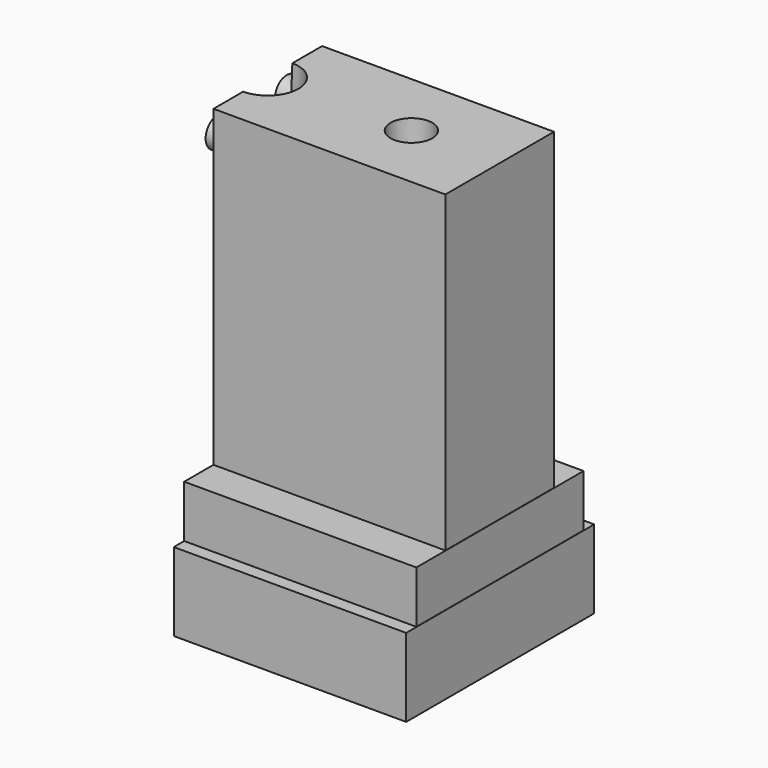
from build123d import *

# Parameters (mm, degrees)
F0_W      = 88.8
F0_H      = 26
F1_DEPTH  = 60
F3_DEPTH  = 45
F4_R      = 2
F5_W      = 88.9
F5_H      = 40
F6_DEPTH  = 10
F8_DEPTH  = 10
F9_R      = 2
F10_W     = 89
F10_H     = 45
F11_DEPTH = 15
F13_DEPTH = 5
F14_R     = 2
F15_R     = 4.6723110677
F15_R_2   = 4
F16_DEPTH = 85.001
F17_W     = 79.5239582658
F17_H     = 118.802215904
F18_DEPTH = 80
F19_R     = 3
F20_DEPTH = 3
F20_TAPER = 3
F21_DEPTH = 3
F21_TAPER = 3
F22_R     = 5.0890490665
F23_DEPTH = 25
F23_TAPER = -3


with BuildPart() as f1:
    # F0 (on Top) → F1 (new body)
    with BuildSketch(Plane.XY):
        Rectangle(F0_W, F0_H)
    extrude(amount=F1_DEPTH)

    # F2 (on face) → F3 (cut)
    with BuildSketch(Plane(origin=(0, 0, 0), x_dir=(1, 0, 0), z_dir=(0, 0, -1))):
        Polygon((-17.5, -7.6945363638), (0, -8), (17.5, -7.6945363638), (17.5, 7.6945363638), (0, 8), (-17.5, 7.6945363638), align=None)
    extrude(amount=-F3_DEPTH, mode=Mode.SUBTRACT)

    # F4
    f4_edges = [f1.edges().sort_by_distance(p)[0] for p in [
        (-17.5, 7.694536, 22.5),
        (-17.5, -7.694536, 22.5),
        (17.5, -7.694536, 22.5),
        (17.5, 7.694536, 22.5),
    ]]
    fillet(f4_edges, radius=F4_R)

    # F5 (on face) → F6 (join)
    with BuildSketch(Plane(origin=(0, 0, 0), x_dir=(1, 0, 0), z_dir=(0, 0, -1))):
        Rectangle(F5_W, F5_H)
    extrude(amount=F6_DEPTH)

    # F7 (on face) → F8 (cut)
    with BuildSketch(Plane(origin=(0, 0, -10), x_dir=(1, 0, 0), z_dir=(0, 0, -1))):
        Polygon((-20, -10.1508987014), (0, -10.5), (20, -10.1508987014), (20, 10.1508987014), (0, 10.5), (-20, 10.1508987014), align=None)
    extrude(amount=-F8_DEPTH, mode=Mode.SUBTRACT)

    # F9
    f9_edges = [f1.edges().sort_by_distance(p)[0] for p in [
        (-20, 10.150899, -5),
        (-20, -10.150899, -5),
        (20, 10.150899, -5),
        (20, -10.150899, -5),
    ]]
    fillet(f9_edges, radius=F9_R)

    # F10 (on face) → F11 (join)
    with BuildSketch(Plane(origin=(0, 0, -10), x_dir=(1, 0, 0), z_dir=(0, 0, -1))):
        Rectangle(F10_W, F10_H)
    extrude(amount=F11_DEPTH)

    # F12 (on face) → F13 (cut)
    with BuildSketch(Plane.XY.offset(-10)):
        Polygon((-39.5, -16.5605249353), (0, -17.25), (39.5, -16.5605249353), (39.5, 16.5605249353), (0, 17.25), (-39.5, 16.5605249353), align=None)
    extrude(amount=-F13_DEPTH, mode=Mode.SUBTRACT)

    # F14
    f14_edges = [f1.edges().sort_by_distance(p)[0] for p in [
        (-39.5, 16.560525, -12.5),
        (-39.5, -16.560525, -12.5),
        (39.5, -16.560525, -12.5),
        (39.5, 16.560525, -12.5),
    ]]
    fillet(f14_edges, radius=F14_R)

    # F15 (on face) → F16 (cut, through all)
    with BuildSketch(Plane.XY.offset(60)):
        with Locations((-27.5, 0)):
            Circle(F15_R)
        with Locations((27.5, 0)):
            Circle(F15_R_2)
    extrude(amount=-F16_DEPTH, mode=Mode.SUBTRACT)

    # F17 (on Right) → F18 (cut)
    with BuildSketch(Plane.YZ):
        with Locations((3.9665214717, 9.8679382354)):
            Rectangle(F17_W, F17_H)
    extrude(amount=-F18_DEPTH, mode=Mode.SUBTRACT)

    # F19 (on face) → F20 (join)
    with BuildSketch(Plane(origin=(0, 0, 0), x_dir=(0, -1, 0), z_dir=(-1, 0, 0))):
        with Locations((8.2831978798, 53.2280467451)):
            Circle(F19_R)
        with Locations((0, -20.896807313)):
            Circle(F19_R)
        with Locations((-8.2831978798, 53.2280467451)):
            Circle(F19_R)
    extrude(amount=F20_DEPTH, taper=F20_TAPER)

    # F19 (on face) → F21 (join)
    with BuildSketch(Plane(origin=(0, 0, 0), x_dir=(0, -1, 0), z_dir=(-1, 0, 0))):
        with Locations((8.2831978798, 53.2280467451)):
            Circle(F19_R)
        with Locations((0, -20.896807313)):
            Circle(F19_R)
        with Locations((-8.2831978798, 53.2280467451)):
            Circle(F19_R)
    extrude(amount=F21_DEPTH, taper=F21_TAPER)

    # F22 (on face) → F23 (cut)
    with BuildSketch(Plane(origin=(0, 0, 45), x_dir=(1, 0, 0), z_dir=(0, 0, -1))):
        Circle(F22_R)
    extrude(amount=-F23_DEPTH, taper=F23_TAPER, mode=Mode.SUBTRACT)


solid = f1.part
